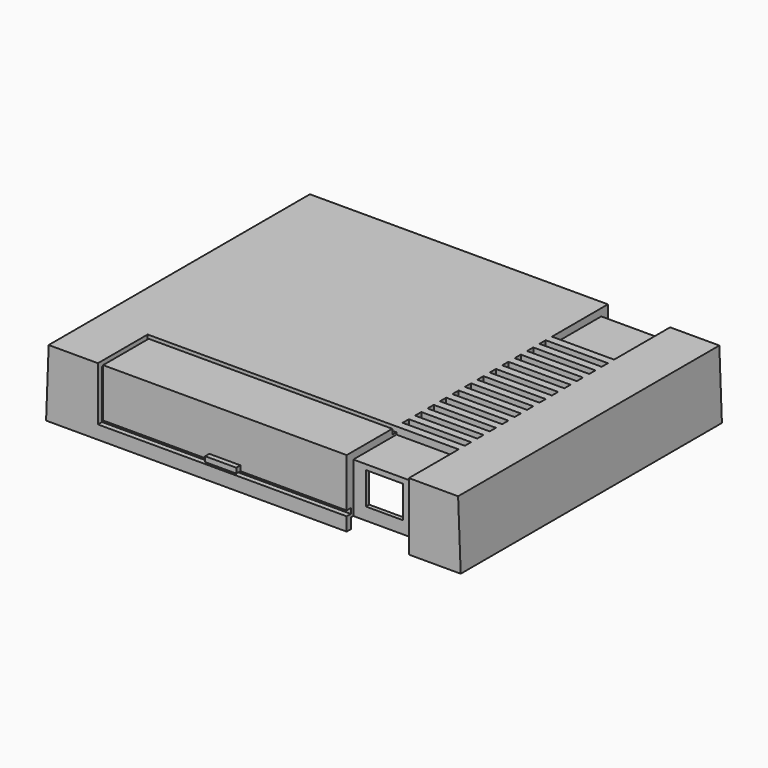
from build123d import *

# Parameters (mm, degrees)
F0_W      = 80
F0_H      = 63
F0_W_2    = 78
F0_H_2    = 61
F1_DEPTH  = 13
F3_DEPTH  = 63
F4_T      = -2.4
F5_DEPTH  = 2
F6_DEPTH  = 1.6
F7_W      = 7.2
F7_H      = 6.2
F8_DEPTH  = 2
F9_W      = 12
F9_H      = 12
F10_DEPTH = 1.4
F9_H_2    = 1.5
F11_DEPTH = 3
F12_W     = 12
F12_H     = 11.6
F13_DEPTH = 1.6
F14_W     = 7.2
F14_H     = 4.8
F15_DEPTH = 3
F16_DEPTH = 1
F2_W      = 6
F2_H      = 1
F17_DEPTH = 1
F18_DEPTH = 1


with BuildPart() as f1:
    # F0 (on Top) → F1 (new body)
    with BuildSketch(Plane.XY):
        Rectangle(F0_W, F0_H)
        Rectangle(F0_W_2, F0_H_2, mode=Mode.SUBTRACT)
        Rectangle(F0_W, F0_H)
        Rectangle(F0_W_2, F0_H_2, mode=Mode.SUBTRACT)
        Rectangle(F0_W_2, F0_H_2)
    extrude(amount=F1_DEPTH)

    # F2 (on face) → F3 (cut)
    with BuildSketch(Plane.XZ.offset(31.5)):
        Polygon((-39.5, 13), (-40, 13), (-40, 0), align=None)
        Polygon((39.5, 13), (40, 0), (40, 13), align=None)
    extrude(amount=-F3_DEPTH, mode=Mode.SUBTRACT)

    # F4
    f4_openings = [f1.faces().sort_by_distance(p)[0] for p in [
        (0, 0, 0),
    ]]
    offset(amount=F4_T, openings=f4_openings)

    # F0 (on Top) → F5 (cut)
    with BuildSketch(Plane.XY):
        Rectangle(F0_W_2, F0_H_2)
    extrude(amount=F5_DEPTH, mode=Mode.SUBTRACT)

    # F2 (on face) → F6 (cut)
    with BuildSketch(Plane.XZ.offset(31.5)):
        Polygon((18, 2.6), (18, 0), (30, 0), (30, 13), (18, 13), (18, 3.6), align=None)
    extrude(amount=-F6_DEPTH, mode=Mode.SUBTRACT)

    # F7 (on face) → F8 (cut)
    with BuildSketch(Plane.XZ.offset(29.9)):
        with Locations((24, 7.5)):
            Rectangle(F7_W, F7_H)
    extrude(amount=-F8_DEPTH, mode=Mode.SUBTRACT)

    # F9 (on face) → F10 (cut)
    with BuildSketch(Plane.XY.offset(13)):
        with Locations((24, 25.5)):
            Rectangle(F9_W, F9_H)
        Polygon((18, -20.5), (18, -29.9), (30, -29.9), (30, -19.5), (18, -19.5), align=None)
    extrude(amount=-F10_DEPTH, mode=Mode.SUBTRACT)

    # F9 (on face) → F11 (cut)
    with BuildSketch(Plane.XY.offset(13)):
        with Locations((24, -17.25)):
            Rectangle(F9_W, F9_H_2)
        with Locations((24, -14.25)):
            Rectangle(F9_W, F9_H_2)
        with Locations((24, -11.25)):
            Rectangle(F9_W, F9_H_2)
        with Locations((24, -8.25)):
            Rectangle(F9_W, F9_H_2)
        with Locations((24, -5.25)):
            Rectangle(F9_W, F9_H_2)
        with Locations((24, 0.75)):
            Rectangle(F9_W, F9_H_2)
        with Locations((24, -2.25)):
            Rectangle(F9_W, F9_H_2)
        with Locations((24, 3.75)):
            Rectangle(F9_W, F9_H_2)
        with Locations((24, 6.75)):
            Rectangle(F9_W, F9_H_2)
        with Locations((24, 9.75)):
            Rectangle(F9_W, F9_H_2)
        with Locations((24, 12.75)):
            Rectangle(F9_W, F9_H_2)
        with Locations((24, 15.75)):
            Rectangle(F9_W, F9_H_2)
        with Locations((24, 18.75)):
            Rectangle(F9_W, F9_H_2)
    extrude(amount=-F11_DEPTH, mode=Mode.SUBTRACT)

    # F12 (on face) → F13 (cut)
    with BuildSketch(Plane(origin=(0, 31.5, 0), x_dir=(-1, 0, 0), z_dir=(0, 1, 0))):
        with Locations((-24, 5.8)):
            Rectangle(F12_W, F12_H)
    extrude(amount=-F13_DEPTH, mode=Mode.SUBTRACT)

    # F14 (on face) → F15 (cut)
    with BuildSketch(Plane(origin=(0, 29.9, 0), x_dir=(-1, 0, 0), z_dir=(0, 1, 0))):
        with Locations((-24, 6.8)):
            Rectangle(F14_W, F14_H)
    extrude(amount=-F15_DEPTH, mode=Mode.SUBTRACT)

    # F9 (on face) → F16 (cut)
    with BuildSketch(Plane.XY.offset(13)):
        Polygon((-29, -20.5), (18, -20.5), (18, -19.5), (-30, -19.5), (-30, -31.5), (-29, -31.5), align=None)
    extrude(amount=-F16_DEPTH, mode=Mode.SUBTRACT)

    # F2 (on face) → F17 (join)
    with BuildSketch(Plane.XZ.offset(31.5)):
        with Locations((-5.5, 4.1)):
            Rectangle(F2_W, F2_H)
    extrude(amount=F17_DEPTH)

    # F2 (on face) → F18 (cut)
    with BuildSketch(Plane.XZ.offset(31.5)):
        Polygon((-29, 13), (-30, 13), (-30, 2.6), (-29, 2.6), (-29, 3.6), align=None)
        Polygon((-29, 2.6), (18, 2.6), (18, 3.6), (-2.5, 3.6), (-8.5, 3.6), (-29, 3.6), align=None)
    extrude(amount=-F18_DEPTH, mode=Mode.SUBTRACT)


solid = f1.part
